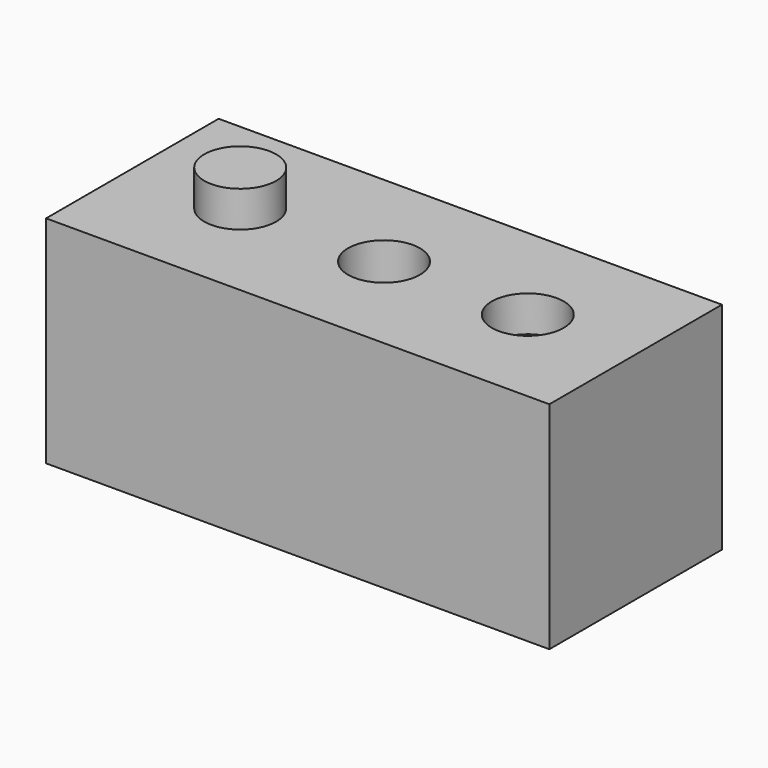
from build123d import *

# Parameters (mm, degrees)
F0_W     = 140
F0_H     = 60
F1_DEPTH = 60
F2_R     = 10
F5_DEPTH = 10
F3_R     = 10
F6_DEPTH = 95.9
F4_R     = 10
F7_DEPTH = 10


with BuildPart() as f1:
    # F0 (on Top) → F1 (new body)
    with BuildSketch(Plane.XY):
        Rectangle(F0_W, F0_H)
    extrude(amount=F1_DEPTH)

    # F2 (on face) → F5 (join)
    with BuildSketch(Plane.XY.offset(60)):
        with Locations((-40, 0)):
            Circle(F2_R)
    extrude(amount=F5_DEPTH)

    # F3 (on face) → F6 (cut)
    with BuildSketch(Plane.XY.offset(60)):
        Circle(F3_R)
    extrude(amount=-F6_DEPTH, mode=Mode.SUBTRACT)

    # F4 (on face) → F7 (cut)
    with BuildSketch(Plane.XY.offset(60)):
        with Locations((40, 0)):
            Circle(F4_R)
    extrude(amount=-F7_DEPTH, mode=Mode.SUBTRACT)


solid = f1.part
